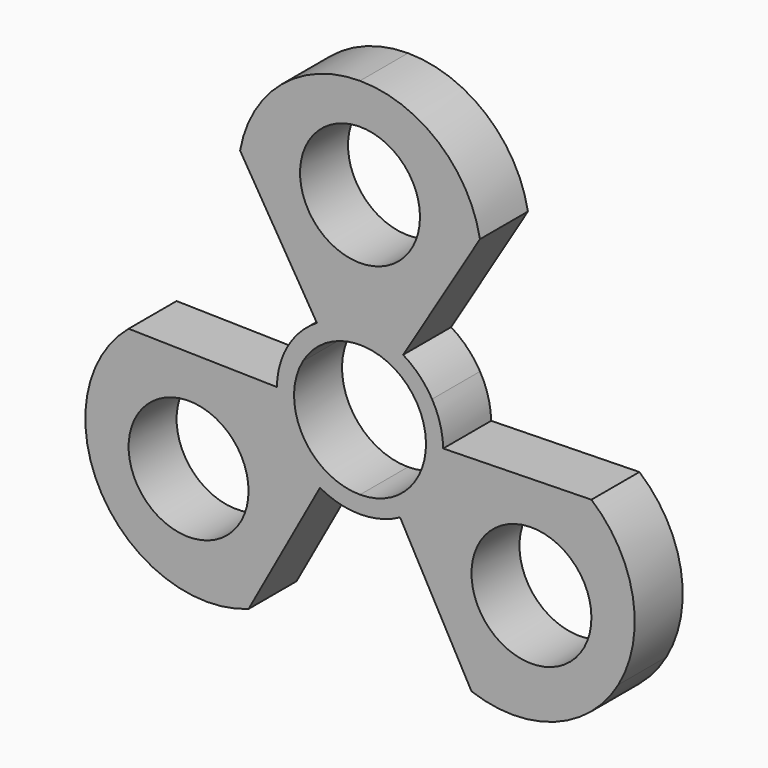
from build123d import *

# Parameters (mm, degrees)
F0_R     = 10
F1_DEPTH = 10


with BuildPart() as f1:
    # F0 (on Front) → F1 (new body)
    with BuildSketch(Plane.XZ):
        with BuildLine():
            Line((-20, 33.013921), (-7.189306, 11.86736))
            ThreePointArc((-7.189306, 11.86736), (-9.914082, 9.707283), (-12.01625, 6.937585))
            ThreePointArc((-12.01625, 6.937585), (-13.363794, 3.732205), (-13.872088, 0.292442))
            Line((-13.872088, 0.292442), (-38.590894, 0.813547))
            ThreePointArc((-38.590894, 0.813547), (-45.509288, -11.215099), (-43.092199, -24.879293))
            ThreePointArc((-43.092199, -24.879293), (-32.467205, -33.80465), (-18.590894, -33.827469))
            Line((-18.590894, -33.827469), (-6.682782, -12.159802))
            ThreePointArc((-6.682782, -12.159802), (-3.449712, -13.439488), (0, -13.87517))
            ThreePointArc((0, -13.87517), (3.449712, -13.439488), (6.682782, -12.159802))
            Line((6.682782, -12.159802), (18.590894, -33.827469))
            ThreePointArc((18.590894, -33.827469), (32.467205, -33.80465), (43.092199, -24.879293))
            ThreePointArc((43.092199, -24.879293), (45.509288, -11.215099), (38.590894, 0.813547))
            Line((38.590894, 0.813547), (13.872088, 0.292442))
            ThreePointArc((13.872088, 0.292442), (13.363794, 3.732205), (12.01625, 6.937585))
            ThreePointArc((12.01625, 6.937585), (9.914082, 9.707283), (7.189306, 11.86736))
            Line((7.189306, 11.86736), (20, 33.013921))
            ThreePointArc((20, 33.013921), (13.042084, 45.019749), (0, 49.758585))
            ThreePointArc((0, 49.758585), (-13.042084, 45.019749), (-20, 33.013921))
        make_face()
        with Locations((-28.590894, -16.506961)):
            Circle(F0_R, mode=Mode.SUBTRACT)
        with Locations((28.590894, -16.506961)):
            Circle(F0_R, mode=Mode.SUBTRACT)
        with BuildLine():
            ThreePointArc((-9.526279, 5.5), (0, 11), (9.526279, 5.5))
            ThreePointArc((9.526279, 5.5), (9.526279, -5.5), (0, -11))
            ThreePointArc((0, -11), (-9.526279, -5.5), (-9.526279, 5.5))
        make_face(mode=Mode.SUBTRACT)
        with Locations((0, 33.013921)):
            Circle(F0_R, mode=Mode.SUBTRACT)
    extrude(amount=F1_DEPTH)


solid = f1.part
